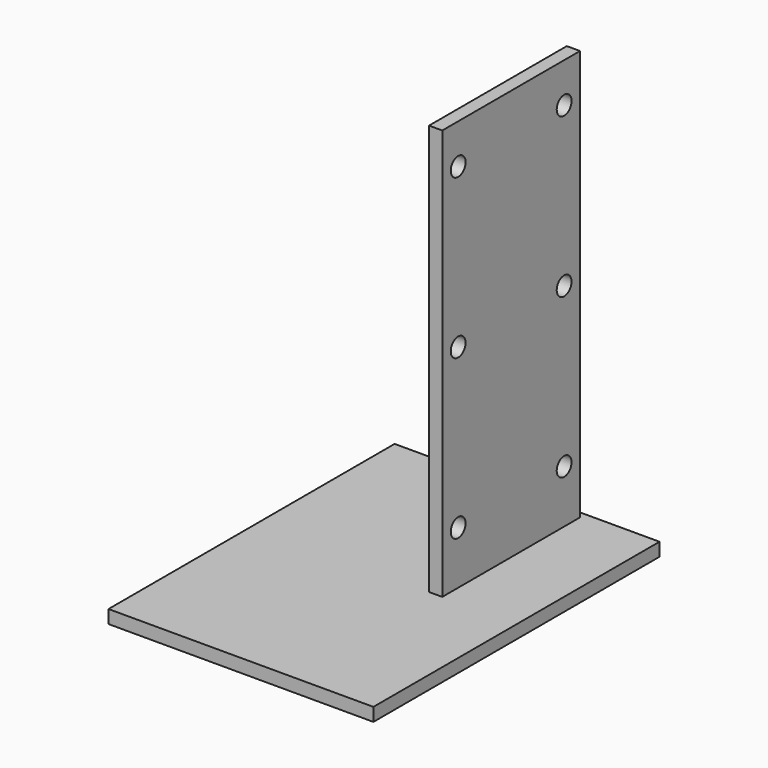
from build123d import *

# Parameters (mm, degrees)
F0_W     = 200
F0_H     = 270
F1_DEPTH = 10
F2_W     = 10
F2_H     = 130
F3_DEPTH = 310
F5_D     = 14


with BuildPart() as f1:
    # F0 (on Top) → F1 (new body)
    with BuildSketch(Plane.XY):
        with Locations((100, 135)):
            Rectangle(F0_W, F0_H)
    extrude(amount=F1_DEPTH)

    # F2 (on face) → F3 (join)
    with BuildSketch(Plane.XY.offset(10)):
        with Locations((139, 200)):
            Rectangle(F2_W, F2_H)
    extrude(amount=F3_DEPTH)

    # F5 (through all)
    with Locations(Plane.YZ.offset(144)):
        with Locations((150, 290), (250, 290), (250, 170), (150, 170), (150, 50), (250, 50)):
            Hole(F5_D / 2)


solid = f1.part
